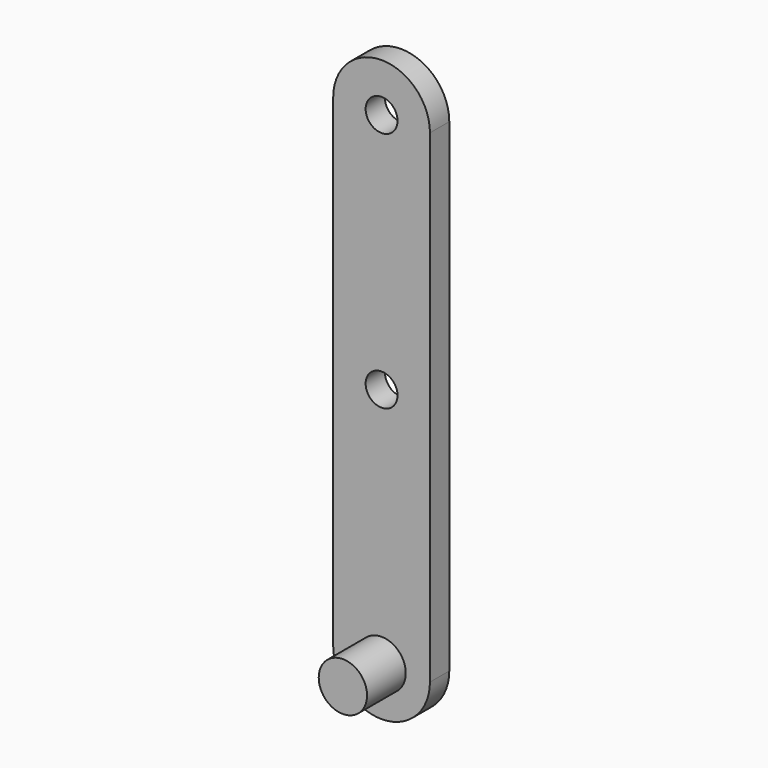
from build123d import *

# Parameters (mm, degrees)
F0_R     = 4.191
F1_DEPTH = 6.35
F2_DEPTH = 19.05


with BuildPart() as f1:
    # F0 (on Front) → F1 (new body)
    with BuildSketch(Plane.XZ):
        with BuildLine():
            Line((4.191, 63.5), (12.7, 63.5))
            ThreePointArc((12.7, 63.5), (0, 76.2), (-12.7, 63.5))
            Line((-12.7, 63.5), (-4.191, 63.5))
            ThreePointArc((-4.191, 63.5), (0, 67.691), (4.191, 63.5))
        make_face()
        with BuildLine():
            ThreePointArc((-12.7, 63.5), (0, 50.8), (12.7, 63.5))
            Line((12.7, 63.5), (4.191, 63.5))
            ThreePointArc((4.191, 63.5), (0, 59.309), (-4.191, 63.5))
            Line((-4.191, 63.5), (-12.7, 63.5))
        make_face()
        with BuildLine():
            Line((12.7, -63.5), (12.7, 63.5))
            ThreePointArc((12.7, 63.5), (0, 50.8), (-12.7, 63.5))
            Line((-12.7, 63.5), (-12.7, -63.5))
            ThreePointArc((-12.7, -63.5), (0, -50.8), (12.7, -63.5))
        make_face()
        Circle(F0_R, mode=Mode.SUBTRACT)
        with BuildLine():
            Line((6.35, -63.5), (12.7, -63.5))
            ThreePointArc((12.7, -63.5), (0, -50.8), (-12.7, -63.5))
            Line((-12.7, -63.5), (-6.35, -63.5))
            ThreePointArc((-6.35, -63.5), (0, -57.15), (6.35, -63.5))
        make_face()
        with BuildLine():
            ThreePointArc((-12.7, -63.5), (0, -76.2), (12.7, -63.5))
            Line((12.7, -63.5), (6.35, -63.5))
            ThreePointArc((6.35, -63.5), (0, -69.85), (-6.35, -63.5))
            Line((-6.35, -63.5), (-12.7, -63.5))
        make_face()
    extrude(amount=F1_DEPTH)

    # F0 (on Front) → F2 (join)
    with BuildSketch(Plane.XZ):
        with BuildLine():
            Line((-6.35, -63.5), (6.35, -63.5))
            ThreePointArc((6.35, -63.5), (0, -57.15), (-6.35, -63.5))
        make_face()
        with BuildLine():
            ThreePointArc((-6.35, -63.5), (0, -69.85), (6.35, -63.5))
            Line((6.35, -63.5), (-6.35, -63.5))
        make_face()
    extrude(amount=F2_DEPTH)


solid = f1.part
